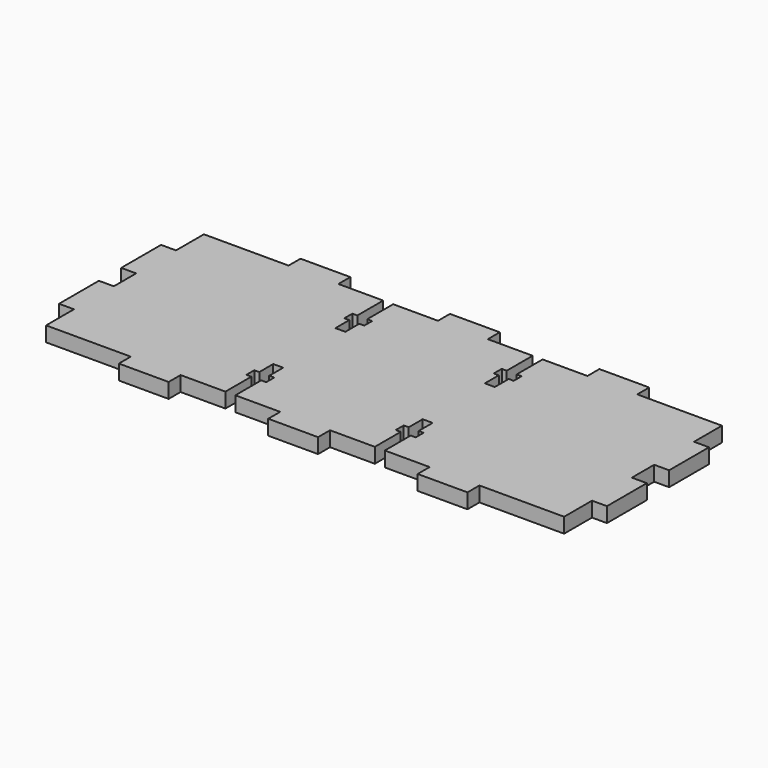
from build123d import *

# Parameters (mm, degrees)
F1_DEPTH = 3


with BuildPart() as f1:
    # F0 (on Top) → F1 (new body)
    with BuildSketch(Plane.XY):
        Polygon((0, 7), (0, 0), (17, 0), (17, -3), (27, -3), (27, 0), (36, 0), (36, 6.5), (35, 6.5), (35, 8.5), (36, 8.5), (36, 12), (38, 12), (38, 8.5), (39, 8.5), (39, 6.5), (38, 6.5), (38, 0), (47, 0), (47, -3), (57, -3), (57, 0), (66, 0), (66, 6.5), (65, 6.5), (65, 8.5), (66, 8.5), (66, 12), (68, 12), (68, 8.5), (69, 8.5), (69, 6.5), (68, 6.5), (68, 0), (77, 0), (77, -3), (87, -3), (87, 0), (104, 0), (104, 7), (107, 7), (107, 17), (104, 17), (104, 22.6), (107, 22.6), (107, 32.6), (104, 32.6), (104, 39.6), (87, 39.6), (87, 42.6), (77, 42.6), (77, 39.6), (68, 39.6), (68, 33.1), (69, 33.1), (69, 31.1), (68, 31.1), (68, 27.6), (66, 27.6), (66, 31.1), (65, 31.1), (65, 33.1), (66, 33.1), (66, 39.6), (57, 39.6), (57, 42.6), (47, 42.6), (47, 39.6), (38, 39.6), (38, 33.1), (39, 33.1), (39, 31.1), (38, 31.1), (38, 27.6), (36, 27.6), (36, 31.1), (35, 31.1), (35, 33.1), (36, 33.1), (36, 39.6), (27, 39.6), (27, 42.6), (17, 42.6), (17, 39.6), (0, 39.6), (0, 32.6), (-3, 32.6), (-3, 22.6), (0, 22.6), (0, 17), (-3, 17), (-3, 7), align=None)
    extrude(amount=F1_DEPTH)


solid = f1.part
